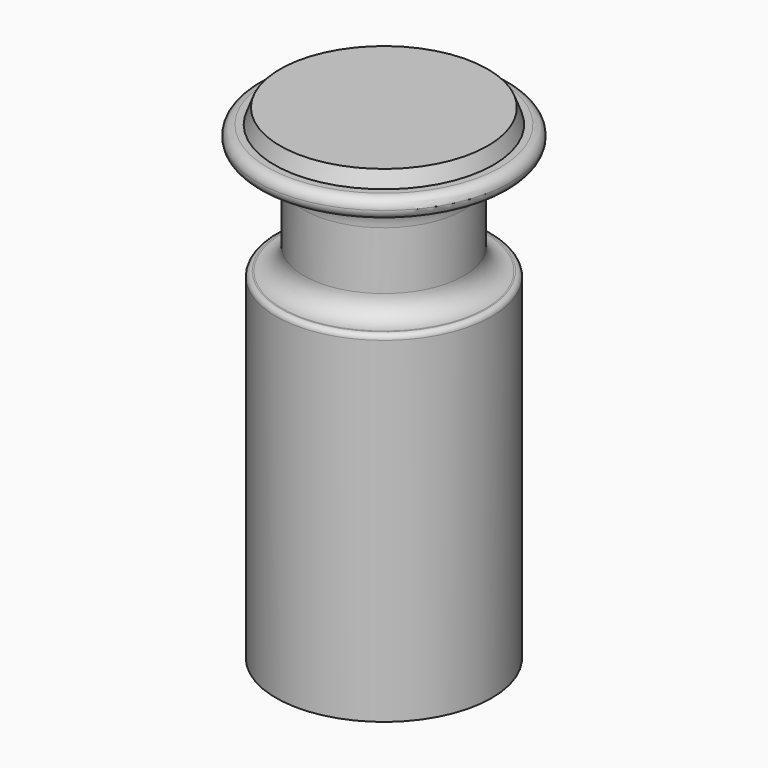
from build123d import *


with BuildPart() as f2:
    # F0 (on Front) → F2 (revolve)
    with BuildSketch(Plane.XZ):
        with BuildLine():
            Line((0, 48.530728), (0, 0))
            Line((0, 0), (10.8, 0))
            Line((10.8, 0), (10.8, 33.62369))
            ThreePointArc((10.8, 33.62369), (10.653553, 33.977243), (10.3, 34.12369))
            Line((10.3, 34.12369), (10.166456, 34.12369))
            ThreePointArc((10.166456, 34.12369), (8.63454, 34.75823), (8, 36.290146))
            Line((8, 36.290146), (8, 42.089971))
            ThreePointArc((8, 42.089971), (8.861868, 44.170704), (10.942602, 45.032572))
            Line((10.942602, 45.032572), (11.65, 45.032572))
            ThreePointArc((11.65, 45.032572), (12.357107, 45.325466), (12.65, 46.032572))
            ThreePointArc((12.65, 46.032572), (12.357107, 46.739679), (11.65, 47.032572))
            Line((11.65, 47.032572), (10.964595, 47.032572))
            Line((10.964595, 47.032572), (10.4, 48.530728))
            Line((10.4, 48.530728), (0, 48.530728))
        make_face()
    revolve(axis=Axis((0, 0, 62.639551), (0, 0, 1)))


solid = f2.part
